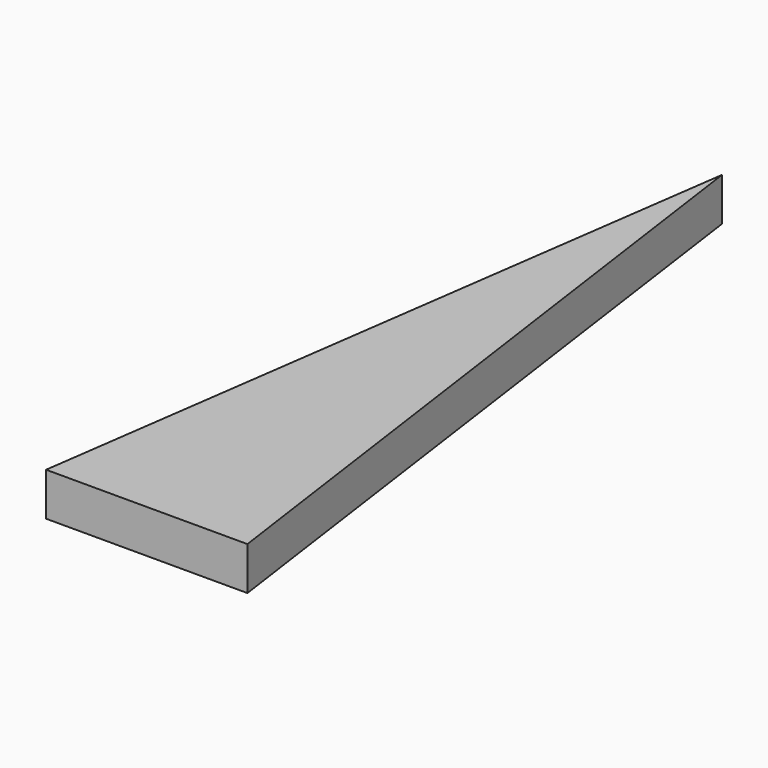
from build123d import *

# Parameters (mm, degrees)
F1_DEPTH = 3


with BuildPart() as f1:
    # F0 (on Top) → F1 (new body)
    with BuildSketch(Plane.XY):
        Polygon((7, -50), (0, 0), (-7, -50), (0, -50), align=None)
        with BuildLine():
            ThreePointArc((5, -45), (3.5355339059, -48.5355339059), (0, -50))
            ThreePointArc((0, -50), (-3.5355339059, -41.4644660941), (5, -45))
        make_face(mode=Mode.SUBTRACT)
        with BuildLine():
            ThreePointArc((5, -45), (-3.5355339059, -41.4644660941), (0, -50))
            ThreePointArc((0, -50), (3.5355339059, -48.5355339059), (5, -45))
        make_face()
    extrude(amount=F1_DEPTH)


solid = f1.part
